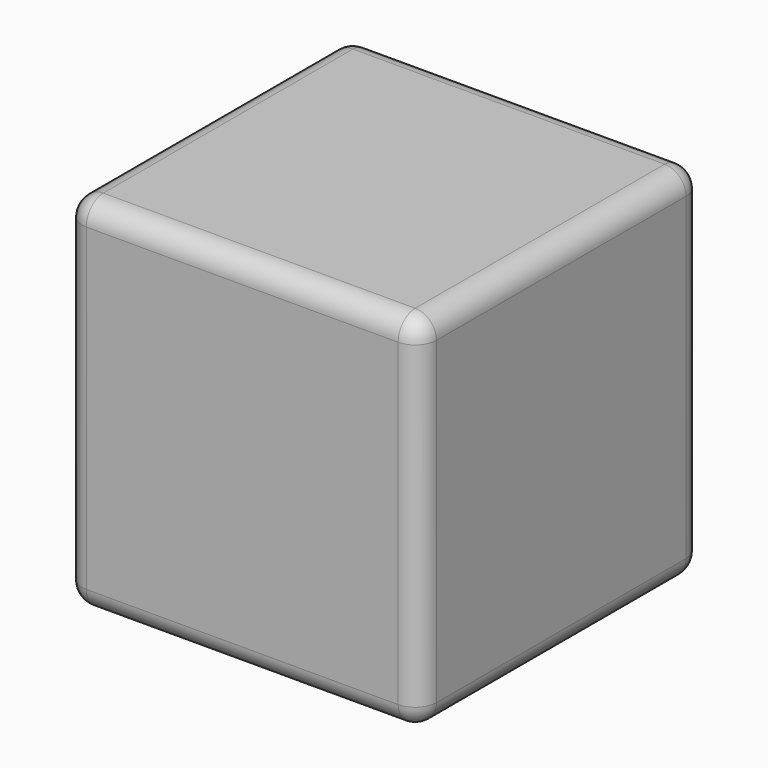
from build123d import *

# Parameters (mm, degrees)
F0_W     = 1270
F0_H     = 1270
F1_DEPTH = 25.4
F2_DEPTH = 1270
F3_R     = 76.2


with BuildPart() as f1:
    # F0 (on Top) → F1 (new body)
    with BuildSketch(Plane.XY):
        with Locations((-0.053324, 86.032909)):
            Rectangle(F0_W, F0_H)
    extrude(amount=F1_DEPTH)

    # F0 (on Top) → F2 (join)
    with BuildSketch(Plane.XY):
        with Locations((-0.053324, 86.032909)):
            Rectangle(F0_W, F0_H)
    extrude(amount=-F2_DEPTH)

    # F3
    f3_edges = [f1.edges().sort_by_distance(p)[0] for p in [
        (634.946676, -548.967091, -622.3),
        (-0.053324, -548.967091, -1270),
        (-0.053324, -548.967091, 25.4),
        (-635.053324, -548.967091, -622.3),
        (634.946676, 86.032909, 25.4),
        (-0.053324, 721.032909, 25.4),
        (634.946676, 721.032909, -622.3),
        (634.946676, 86.032909, -1270),
        (-635.053324, 86.032909, 25.4),
        (-635.053324, 86.032909, -1270),
        (-635.053324, 721.032909, -622.3),
        (-0.053324, 721.032909, -1270),
    ]]
    fillet(f3_edges, radius=F3_R)


solid = f1.part
